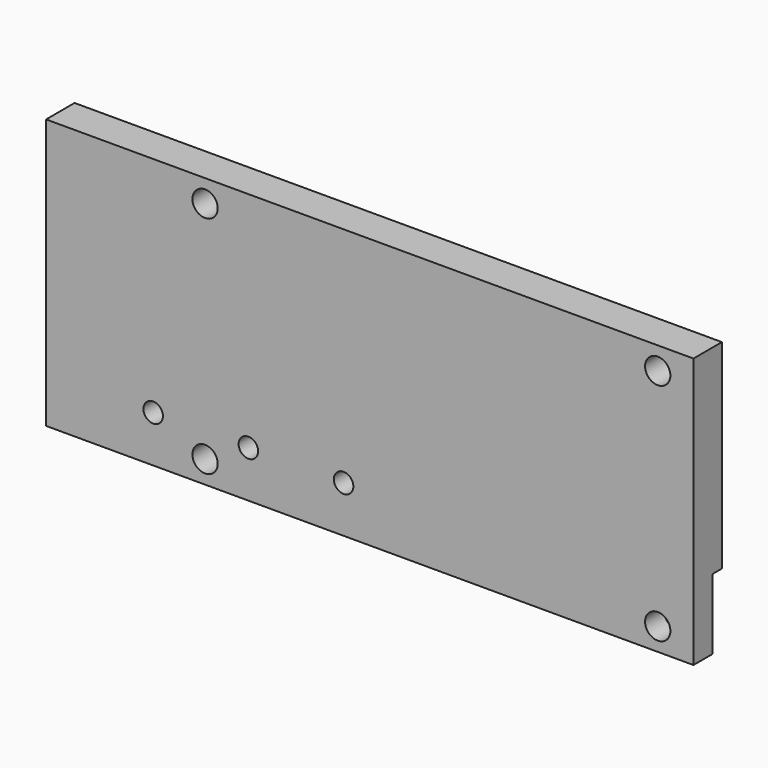
from build123d import *

# Parameters (mm, degrees)
F0_W     = 345.44
F0_H     = 143.9926
F0_R     = 6.7437
F0_R_2   = 5.207
F0_R_3   = 6.75
F1_DEPTH = 18.9992
F2_W     = 6.35
F2_H     = 25.4
F3_DEPTH = 345.441
F4_W     = 34.925
F4_H     = 37.58184
F5_DEPTH = 6.35


with BuildPart() as f1:
    # F0 (on Front) → F1 (new body)
    with BuildSketch(Plane.XZ):
        Rectangle(F0_W, F0_H)
        with Locations((-87.884, -59.9948)):
            Circle(F0_R, mode=Mode.SUBTRACT)
        with Locations((-115.57, -47.11446)):
            Circle(F0_R_2, mode=Mode.SUBTRACT)
        with Locations((-64.77, -47.11446)):
            Circle(F0_R_2, mode=Mode.SUBTRACT)
        with Locations((-13.97, -47.11446)):
            Circle(F0_R_2, mode=Mode.SUBTRACT)
        with Locations((153.67, -59.9948)):
            Circle(F0_R_3, mode=Mode.SUBTRACT)
        with Locations((-87.884, 59.9948)):
            Circle(F0_R, mode=Mode.SUBTRACT)
        with Locations((153.67, 59.9948)):
            Circle(F0_R, mode=Mode.SUBTRACT)
    extrude(amount=F1_DEPTH)

    # F2 (on face) → F3 (cut, through all)
    with BuildSketch(Plane(origin=(-172.72, 0, 0), x_dir=(0, -1, 0), z_dir=(-1, 0, 0))):
        with Locations((3.175, -47.11446)):
            Rectangle(F2_W, F2_H)
    extrude(amount=-F3_DEPTH, mode=Mode.SUBTRACT)

    # F4 (on face) → F5 (cut, through all)
    with BuildSketch(Plane(origin=(0, 0, 0), x_dir=(-1, 0, 0), z_dir=(0, 1, 0))):
        with Locations((-155.2575, -53.20538)):
            Rectangle(F4_W, F4_H)
        with Locations((155.2575, -53.20538)):
            Rectangle(F4_W, F4_H)
    extrude(amount=-F5_DEPTH, mode=Mode.SUBTRACT)


solid = f1.part
